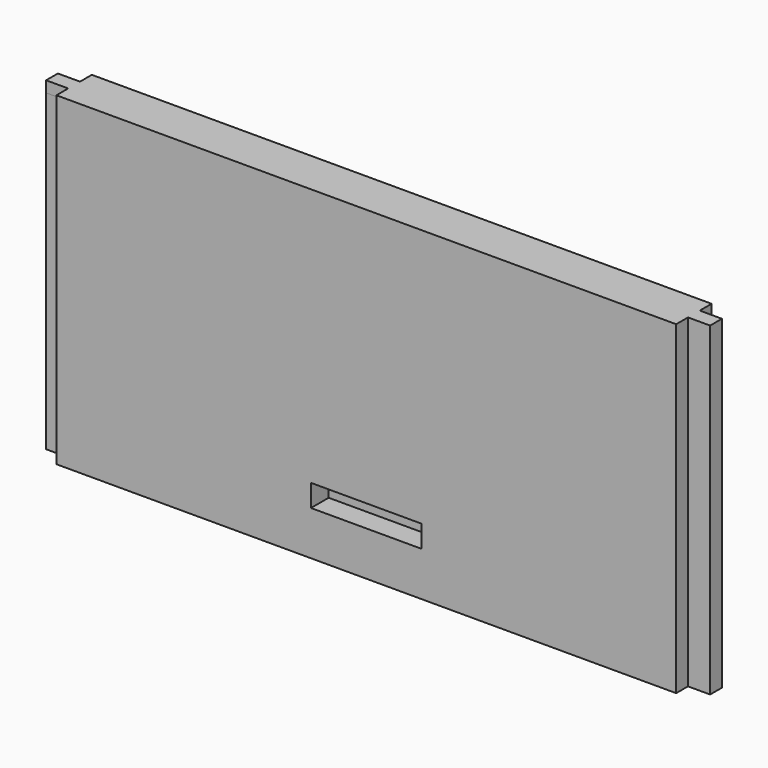
from build123d import *

# Parameters (mm, degrees)
PAD015_DEPTH    = 28.35
POCKET020_DEPTH = 2
PAD045_DEPTH    = 1


with BuildPart() as part:
    # Sketch029 → Pad015 (new body)
    with BuildSketch(Plane.XY):
        Polygon((-78.25, -81.000001), (-78.25, -82.333334), (-80.25, -82.333334), (-80.25, -83.666667), (-78.25, -83.666667), (-78.25, -85), (-22.25, -85), (-22.25, -83.666667), (-20.25, -83.666667), (-20.25, -82.333334), (-22.25, -82.333334), (-22.25, -81.000001), align=None)
    extrude(amount=PAD015_DEPTH)

    # Sketch037 (on Face6 of Pad015) → Pocket020 (cut)
    with BuildSketch(Plane.XZ.offset(85)):
        Polygon((-55.25, 6), (-45.25, 6), (-45.25, 4), (-50.25, 4), (-55.25, 4), align=None)
    extrude(amount=-POCKET020_DEPTH, mode=Mode.SUBTRACT)

    # Pocket020 Face5 → Pad045 (add)
    with BuildSketch(Plane(origin=(-50.25, -83, 28.35), x_dir=(0, 1, 0), z_dir=(0, 0, 1))):
        Polygon((2, 28), (0.666667, 28), (0.666667, 30), (-0.666666, 30), (-0.666666, 28), (-2, 28), (-2, -28), (-0.666667, -28), (-0.666667, -30), (0.666667, -30), (0.666667, -28), (2, -28), align=None)
    extrude(amount=PAD045_DEPTH)


with BuildPart() as part_1:
    # Body003 placement: moved
    add(part.part.moved(Location((0, -20, -56))))


solid = part_1.part
